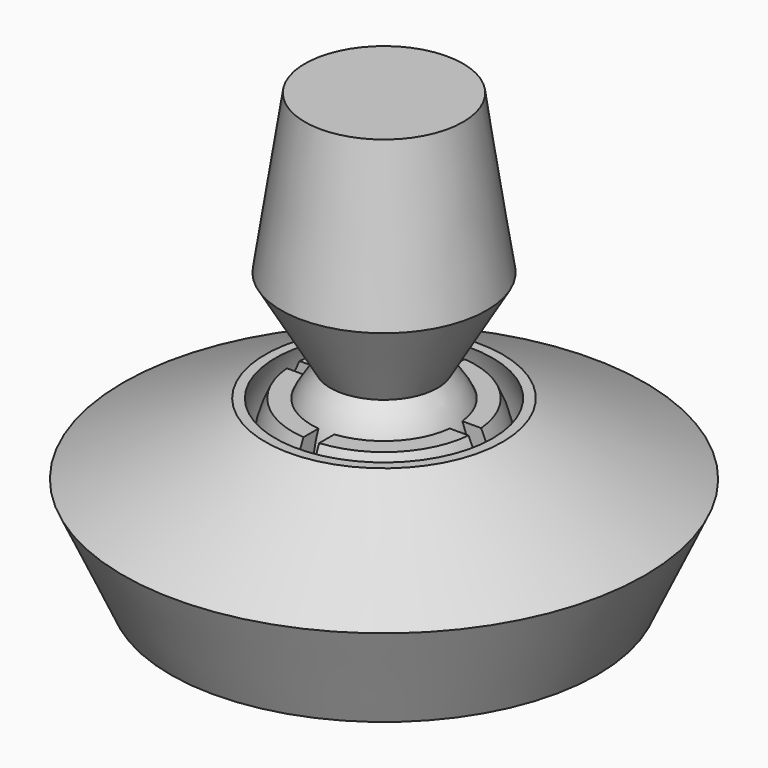
from build123d import *

# Parameters (mm, degrees)
CYLINDER_R              = 10
CYLINDER_DEPTH          = 6
CYLINDER002_R           = 6.5
CYLINDER002_DEPTH       = 1
CYLINDER002_ROLL_ANGLE  = 90
CYLINDER001_R           = 6.5
CYLINDER001_DEPTH       = 1
CYLINDER001_PITCH_ANGLE = 90


with BuildPart() as cone001:
    # Cone001 → Cone001 (revolve)
    with BuildSketch(Plane(origin=(0, 0, 17), x_dir=(1, 0, 0), z_dir=(0, -1, 0))):
        Polygon((0, 0), (6.5, 0), (5, 10), (0, 10), align=None)
    revolve(axis=Axis((0, 0, 17), (0, 0, 1)))


with BuildPart() as cone:
    # Cone → Cone (revolve)
    with BuildSketch(Plane(origin=(0, 0, 11), x_dir=(1, 0, 0), z_dir=(0, -1, 0))):
        Polygon((0, 0), (3, 0), (6.5, 6), (0, 6), align=None)
    revolve(axis=Axis((0, 0, 11), (0, 0, 1)))


with BuildPart() as shaft:
    # Sphere → Sphere (revolve)
    with BuildSketch(Plane(origin=(0, 0, 8), x_dir=(1, 0, 0), z_dir=(0, -1, 0))):
        with BuildLine():
            ThreePointArc((0, -5), (5, 0), (0, 5))
            Line((0, 5), (0, -5))
        make_face()
    revolve(axis=Axis((0, 0, 8), (0, 0, 1)))

    # Fusion: union Cone001, Cone
    add(cone001.part)
    add(cone.part)


with BuildPart() as shaft_1:
    # Fusion placement: moved
    add(shaft.part.moved(Location((0, 0, 1))))


with BuildPart() as cylinder:
    # Cylinder → Cylinder (new body)
    with BuildSketch(Plane.XY.offset(-1)):
        Circle(CYLINDER_R)
    extrude(amount=CYLINDER_DEPTH)


with BuildPart() as cylinder002:
    # Cylinder002 → Cylinder002 (new body)
    with BuildSketch(Plane.XY):
        Circle(CYLINDER002_R)
    extrude(amount=CYLINDER002_DEPTH)


with BuildPart() as cylinder002_1:
    # Cylinder002 roll: moved
    add(cylinder002.part.rotate(Axis((0, 0, 0), (1, 0, 0)), CYLINDER002_ROLL_ANGLE))


with BuildPart() as cylinder002_2:
    # Cylinder002 placement: moved
    add(cylinder002_1.part.moved(Location((0, 0.5, 7))))


with BuildPart() as sphere004:
    # Sphere004 → Sphere004 (revolve)
    with BuildSketch(Plane(origin=(0, 0, 7), x_dir=(1, 0, 0), z_dir=(0, -1, 0))):
        with BuildLine():
            ThreePointArc((0, -6.5), (6.5, 0), (0, 6.5))
            Line((0, 6.5), (0, -6.5))
        make_face()
    revolve(axis=Axis((0, 0, 7), (0, 0, 1)))


with BuildPart() as cut001:
    # Sphere002 → Sphere002 (revolve)
    with BuildSketch(Plane(origin=(0, 0, 7), x_dir=(1, 0, 0), z_dir=(0, -1, 0))):
        with BuildLine():
            ThreePointArc((0, -7.5), (7.5, 0), (0, 7.5))
            Line((0, 7.5), (0, -7.5))
        make_face()
    revolve(axis=Axis((0, 0, 7), (0, 0, 1)))

    # Cut001: cut Sphere004
    add(sphere004.part, mode=Mode.SUBTRACT)


with BuildPart() as cut:
    # Cylinder001 → Cylinder001 (new body)
    with BuildSketch(Plane.XY):
        Circle(CYLINDER001_R)
    extrude(amount=CYLINDER001_DEPTH)


with BuildPart() as cut_1:
    # Cylinder001 pitch: moved
    add(cut.part.rotate(Axis((0, 0, 0), (0, 1, 0)), CYLINDER001_PITCH_ANGLE))


with BuildPart() as cut_2:
    # Cylinder001 placement: moved
    add(cut_1.part.moved(Location((-0.5, 0, 7))))

    # Fusion002: union Cylinder002, Cut001
    add(cylinder002_2.part)
    add(cut001.part)

    # Cut: cut Cylinder
    add(cylinder.part, mode=Mode.SUBTRACT)


with BuildPart() as cutout:
    # Sphere001 → Sphere001 (revolve)
    with BuildSketch(Plane(origin=(0, 0, 8), x_dir=(1, 0, 0), z_dir=(0, -1, 0))):
        with BuildLine():
            ThreePointArc((0, -5), (5, 0), (0, 5))
            Line((0, 5), (0, -5))
        make_face()
    revolve(axis=Axis((0, 0, 8), (0, 0, 1)))

    # Fusion003: union Cut
    add(cut_2.part)


with BuildPart() as cutout_1:
    # Fusion003 placement: moved
    add(cutout.part.moved(Location((0, 0, 1))))


with BuildPart() as cone2:
    # Cone003 → Cone003 (revolve)
    with BuildSketch(Plane(origin=(0, 0, 6.5), x_dir=(1, 0, 0), z_dir=(0, -1, 0))):
        Polygon((0, 0), (16.5, 0), (7.5, 4.5), (0, 4.5), align=None)
    revolve(axis=Axis((0, 0, 6.5), (0, 0, 1)))


with BuildPart() as obj1:
    # Cone002 → Cone002 (revolve)
    with BuildSketch(Plane.XZ):
        Polygon((0, 0), (13.5, 0), (16.5, 6.5), (0, 6.5), align=None)
    revolve(axis=Axis((0, 0, 0), (0, 0, 1)))

    # Fusion001: union Cone2
    add(cone2.part)

    # Cut002: cut Cutout
    add(cutout_1.part, mode=Mode.SUBTRACT)


solid = Compound([shaft_1.part, obj1.part])
